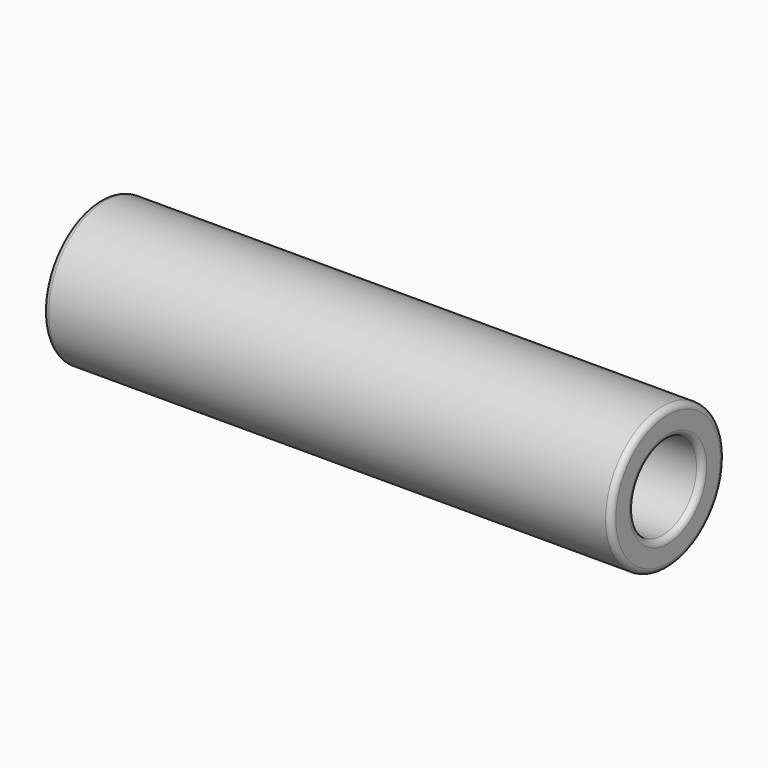
from build123d import *

# Parameters (mm, degrees)
F0_R     = 6.25
F0_R_2   = 3.75
F1_DEPTH = 50
F2_R     = 0.5


with BuildPart() as f1:
    # F0 (on Right) → F1 (new body)
    with BuildSketch(Plane.YZ):
        Circle(F0_R)
        Circle(F0_R_2, mode=Mode.SUBTRACT)
    extrude(amount=F1_DEPTH)

    # F2
    f2_edges = [f1.edges().sort_by_distance(p)[0] for p in [
        (0, -6.25, 0),
        (0, -3.75, 0),
        (50, -6.25, 0),
        (50, -3.75, 0),
    ]]
    fillet(f2_edges, radius=F2_R)


solid = f1.part
